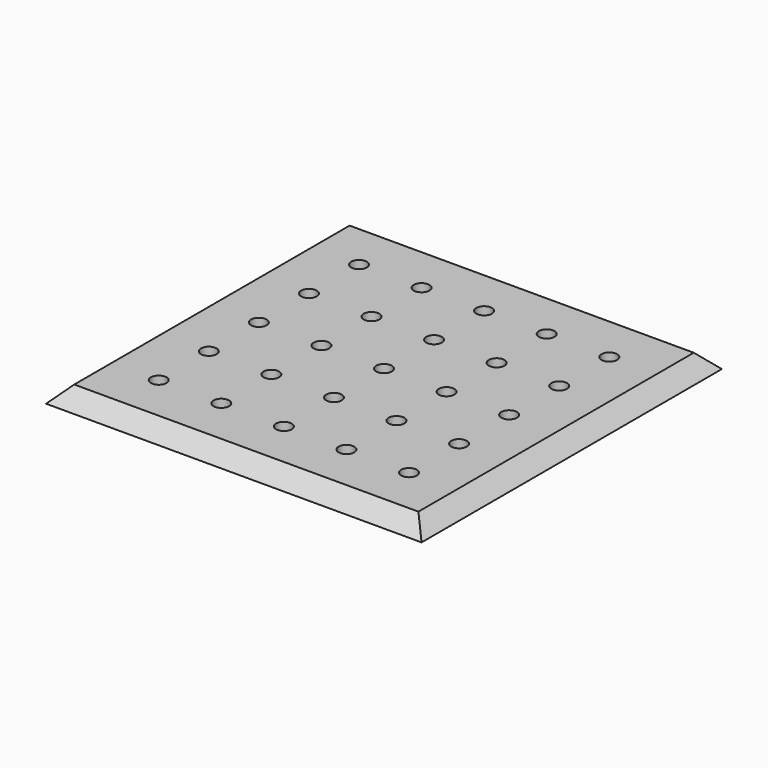
from build123d import *

# Parameters (mm, degrees)
F0_W     = 76.2
F0_H     = 76.2
F1_DEPTH = 3.175
F4_DEPTH = 76.2
F5_DEPTH = 76.2
F6_R     = 1.5875
F7_DEPTH = 3.176


with BuildPart() as f1:
    # F0 (on Top) → F1 (new body)
    with BuildSketch(Plane.XY):
        Rectangle(F0_W, F0_H)
    extrude(amount=F1_DEPTH)

    # F3 (on face) → F4 (cut)
    with BuildSketch(Plane(origin=(0, 38.1, 0), x_dir=(-1, 0, 0), z_dir=(0, 1, 0))):
        Polygon((-38.1, 3.175), (-38.1, 0), (-34.925, 3.175), align=None)
        Polygon((34.925, 3.175), (38.1, 0), (38.1, 3.175), align=None)
    extrude(amount=-F4_DEPTH, mode=Mode.SUBTRACT)

    # F2 (on face) → F5 (cut)
    with BuildSketch(Plane.YZ.offset(38.1)):
        Polygon((34.925, 3.175), (38.1, 0), (38.1, 3.175), align=None)
        Polygon((-38.1, 3.175), (-38.1, 0), (-34.925, 3.175), align=None)
    extrude(amount=-F5_DEPTH, mode=Mode.SUBTRACT)

    # F6 (on face) → F7 (cut, through all)
    with BuildSketch(Plane(origin=(0, 0, 0), x_dir=(1, 0, 0), z_dir=(0, 0, -1))):
        with Locations((-25.4, 25.4)):
            Circle(F6_R)
        with Locations((-12.7, 25.4)):
            Circle(F6_R)
        with Locations((12.7, 25.4)):
            Circle(F6_R)
        with Locations((25.4, 25.4)):
            Circle(F6_R)
        with Locations((0, 25.4)):
            Circle(F6_R)
        with Locations((0, 12.7)):
            Circle(F6_R)
        with Locations((-12.7, 12.7)):
            Circle(F6_R)
        with Locations((-25.4, 12.7)):
            Circle(F6_R)
        with Locations((-25.4, 0)):
            Circle(F6_R)
        with Locations((-12.7, 0)):
            Circle(F6_R)
        Circle(F6_R)
        with Locations((12.7, 12.7)):
            Circle(F6_R)
        with Locations((25.4, 12.7)):
            Circle(F6_R)
        with Locations((25.4, 0)):
            Circle(F6_R)
        with Locations((12.7, 0)):
            Circle(F6_R)
        with Locations((-25.4, -12.7)):
            Circle(F6_R)
        with Locations((-25.4, -25.4)):
            Circle(F6_R)
        with Locations((-12.7, -25.4)):
            Circle(F6_R)
        with Locations((0, -25.4)):
            Circle(F6_R)
        with Locations((12.7, -25.4)):
            Circle(F6_R)
        with Locations((25.4, -25.4)):
            Circle(F6_R)
        with Locations((25.4, -12.7)):
            Circle(F6_R)
        with Locations((12.7, -12.7)):
            Circle(F6_R)
        with Locations((0, -12.7)):
            Circle(F6_R)
        with Locations((-12.7, -12.7)):
            Circle(F6_R)
    extrude(amount=-F7_DEPTH, mode=Mode.SUBTRACT)


solid = f1.part
